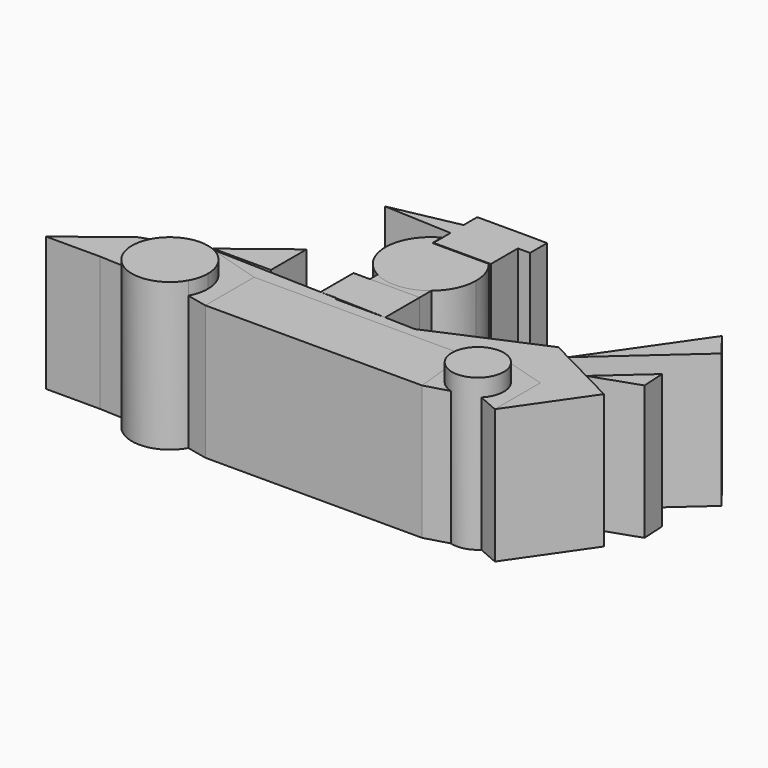
from build123d import *

# Parameters (mm, degrees)
F1_DEPTH  = 25.4
F2_DEPTH  = 27.94
F3_DEPTH  = 25.4
F4_DEPTH  = 25.4
F5_DEPTH  = 25.4
F6_DEPTH  = 25.4
F0_W      = 3.0998642863
F0_H      = 7.7887267968
F7_DEPTH  = 25.4
F8_DEPTH  = 25.4
F9_DEPTH  = 25.4
F11_DEPTH = 25.4
F0_W_2    = 13.2477991283
F0_H_2    = 4.0352344513
F13_DEPTH = 25.4
F14_DEPTH = 25.4
F15_DEPTH = 25.4
F16_DEPTH = 25.4
F17_DEPTH = 25.4
F19_DEPTH = 25.4
F20_DEPTH = 25.4
F21_DEPTH = 3.302


with BuildPart() as f1:
    # F0 (on Top) → F1 (new body)
    with BuildSketch(Plane.XY):
        Polygon((10.949794203, 7.1909739636), (-28.8991834968, 7.1909739636), (-28.8991834968, -4.3570683338), (12.1288569644, -4.3570683338), align=None)
    extrude(amount=F1_DEPTH)


with BuildPart() as f2:
    # F0 (on Top) → F2 (new body)
    with BuildSketch(Plane.XY):
        with BuildLine():
            ThreePointArc((-45.9738142885, -2.0900922262), (-39.8560342132, -7.1504074768), (-32.8084771592, -3.4944584816))
            ThreePointArc((-32.8084771592, -3.4944584816), (-32.1325414098, -1.8050186233), (-31.9023155607, 0))
            ThreePointArc((-31.9023155607, 0), (-40.1498007901, 7.1129382459), (-45.9738142885, -2.0900922262))
        make_face()
    extrude(amount=F2_DEPTH)


with BuildPart() as f3:
    # F0 (on Top) → F3 (new body)
    with BuildSketch(Plane.XY):
        with BuildLine():
            Line((-28.8991834968, -4.3570683338), (-28.8991834968, 7.1909739636))
            Line((-28.8991834968, 7.1909739636), (-39.2858572304, 10.2715240791))
            Line((-39.2858572304, 10.2715240791), (-50.4545979202, 6.417769473))
            Line((-50.4545979202, 6.417769473), (-50.8397258818, -1.8638069741))
            Line((-50.8397258818, -1.8638069741), (-45.9738142885, -2.0900922262))
            ThreePointArc((-45.9738142885, -2.0900922262), (-40.1498007901, 7.1129382459), (-31.9023155607, 0))
            ThreePointArc((-31.9023155607, 0), (-32.1325414098, -1.8050186233), (-32.8084771592, -3.4944584816))
            Line((-32.8084771592, -3.4944584816), (-28.8991834968, -4.3570683338))
        make_face()
    extrude(amount=F3_DEPTH)

    # F0 (on Top) → F4 (join)
    with BuildSketch(Plane.XY):
        Polygon((-50.8397258818, -1.8638069741), (-50.4545979202, 6.417769473), (-61.0456392169, -1.8638069741), align=None)
    extrude(amount=F4_DEPTH)


with BuildPart() as f5:
    # F0 (on Top) → F5 (new body)
    with BuildSketch(Plane.XY):
        Polygon((-39.2858572304, 10.2715240791), (-28.8991834968, 7.1909739636), (10.949794203, 7.1909739636), (14.8894104945, 10.2715240791), (25.2760842281, 7.1909739636), (25.2760842281, -3.5705855116), (34.8514616489, 10.2715240791), (29.173970462, 13.1911956168), (23.3488607793, 16.1867805299), (20.2165637165, 17.7975762635), (0, 9.0607940381), (-5.7390695111, 9.2376633838), (-15.1657452807, 9.2376633838), (-15.1657452807, 9.5281791151), (-18.265609567, 9.6237121919), align=None)
    extrude(amount=F5_DEPTH)



with BuildPart() as f6:
    # F0 (on Top) → F6 (new body)
    with BuildSketch(Plane.XY):
        Polygon((-15.1657452807, 9.6237121919), (-15.1657452807, 9.5281791151), (-5.7390695111, 9.2376633838), (-5.7390695111, 17.4124389887), (-15.1657452807, 17.4124389887), align=None)
    extrude(amount=F6_DEPTH)


with BuildPart() as f5_1:
    add(f5.part)

    add(f6.part)  # F7 merges F6
    # F0 (on Top) → F7 (join)
    with BuildSketch(Plane.XY):
        with Locations((-16.7156774238, 13.5180755903)):
            Rectangle(F0_W, F0_H)
    extrude(amount=F7_DEPTH)


with BuildPart() as f8:
    # F0 (on Top) → F8 (new body)
    with BuildSketch(Plane.XY):
        with BuildLine():
            ThreePointArc((-15.1657452807, 34.4403494642), (-19.7603510768, 26.836739853), (-15.1657452807, 19.2331302418))
            Line((-15.1657452807, 19.2331302418), (-15.1657452807, 20.1840243747))
            Line((-15.1657452807, 20.1840243747), (-5.7390695111, 20.1840243747))
            ThreePointArc((-5.7390695111, 20.1840243747), (-3.4116930349, 23.1549496233), (-2.5825375616, 26.836739853))
            ThreePointArc((-2.5825375616, 26.836739853), (-3.064720049, 29.6740521196), (-4.4571279199, 32.192790131))
            Line((-4.4571279199, 32.192790131), (-15.1657452807, 32.192790131))
            Line((-15.1657452807, 32.192790131), (-15.1657452807, 34.4403494642))
        make_face()
    extrude(amount=F8_DEPTH)

    # F0 (on Top) → F19 (join)
    with BuildSketch(Plane.XY):
        with BuildLine():
            Line((-15.1657452807, 20.1840243747), (-15.1657452807, 19.2331302418))
            ThreePointArc((-15.1657452807, 19.2331302418), (-10.3094327125, 18.2911997718), (-5.7390695111, 20.1840243747))
            Line((-5.7390695111, 20.1840243747), (-15.1657452807, 20.1840243747))
        make_face()
    extrude(amount=F19_DEPTH)


with BuildPart() as f9:
    # F0 (on Top) → F9 (new body)
    with BuildSketch(Plane.XY):
        with BuildLine():
            ThreePointArc((22.8153576644, 1.6250861809), (14.9515711294, 5.5463628324), (16.551499587, -3.0939946935))
            ThreePointArc((16.551499587, -3.0939946935), (19.1226476258, -3.1312880436), (21.3599863954, -1.8638069741))
            ThreePointArc((21.3599863954, -1.8638069741), (22.4369303339, -0.2650514449), (22.8153576644, 1.6250861809))
        make_face()
    extrude(amount=F9_DEPTH)

    # F21 (add): a face of the model
    f21_faces = [f9.faces().sort_by_distance(p)[0] for p in [
        (17.9057922214, 1.6250861809, 25.4),
    ]]
    extrude(f21_faces, amount=F21_DEPTH)


with BuildPart() as f11:
    # F10 (on face) → F11 (new body)
    with BuildSketch(Plane.XY):
        Polygon((-28.4170620143, 10.5609092861), (-28.4170620143, 19.0082788467), (-39.3489524722, 10.5609092861), align=None)
    extrude(amount=F11_DEPTH)


with BuildPart() as f13:
    # F0 (on Top) → F13 (new body)
    with BuildSketch(Plane.XY):
        with Locations((-8.5418457165, 40.7694429159)):
            Rectangle(F0_W_2, F0_H_2)
    extrude(amount=F13_DEPTH)

    # F12 (on Top) → F14 (join)
    with BuildSketch(Plane.XY):
        Polygon((-27.9431901872, 36.9895473123), (-15.0772612542, 36.3864563406), (-15.0772612542, 32.3658548295), (-4.2216335423, 32.3658548295), (-4.2216335423, 42.8194217384), (-15.0772612542, 42.8194217384), (-15.0772612542, 39.6029390395), align=None)
    extrude(amount=F14_DEPTH)


with BuildPart() as f15:
    # F0 (on Top) → F15 (new body)
    with BuildSketch(Plane.XY):
        with BuildLine():
            Line((14.8894104945, 10.2715240791), (10.949794203, 7.1909739636))
            Line((10.949794203, 7.1909739636), (12.1288569644, -4.3570683338))
            Line((12.1288569644, -4.3570683338), (16.551499587, -3.0939946935))
            ThreePointArc((16.551499587, -3.0939946935), (14.9515711294, 5.5463628324), (22.8153576644, 1.6250861809))
            ThreePointArc((22.8153576644, 1.6250861809), (22.4369303339, -0.2650514449), (21.3599863954, -1.8638069741))
            Line((21.3599863954, -1.8638069741), (25.2760842281, -3.5705855116))
            Line((25.2760842281, -3.5705855116), (25.2760842281, 7.1909739636))
            Line((25.2760842281, 7.1909739636), (14.8894104945, 10.2715240791))
        make_face()
    extrude(amount=F15_DEPTH)


with BuildPart() as f16:
    # F0 (on Top) → F16 (new body)
    with BuildSketch(Plane.XY):
        Polygon((36.8486594463, 35.7020105192), (23.3488607793, 16.1867805299), (40.302815299, 31.2846018876), align=None)
    extrude(amount=F16_DEPTH)


with BuildPart() as f17:
    # F0 (on Top) → F17 (new body)
    with BuildSketch(Plane.XY):
        Polygon((37.5598161976, 20.6589519271), (29.173970462, 13.1911956168), (37.8081924042, 16.1867805299), align=None)
    extrude(amount=F17_DEPTH)


with BuildPart() as f20:
    # F18 (on face) → F20 (new body)
    with BuildSketch(Plane.XY):
        with BuildLine():
            ThreePointArc((-5.7390695111, 20.1840243747), (-10.3094327125, 18.2911997718), (-15.1657452807, 19.2331302418))
            Line((-15.1657452807, 19.2331302418), (-15.1657452807, 17.4124389887))
            Line((-15.1657452807, 17.4124389887), (-5.7390695111, 17.4124389887))
            Line((-5.7390695111, 17.4124389887), (-5.7390695111, 20.1840243747))
        make_face()
    extrude(amount=F20_DEPTH)


solid = Compound([f1.part, f2.part, f3.part, f5_1.part, f8.part, f9.part, f11.part, f13.part, f15.part, f16.part, f17.part, f20.part])
